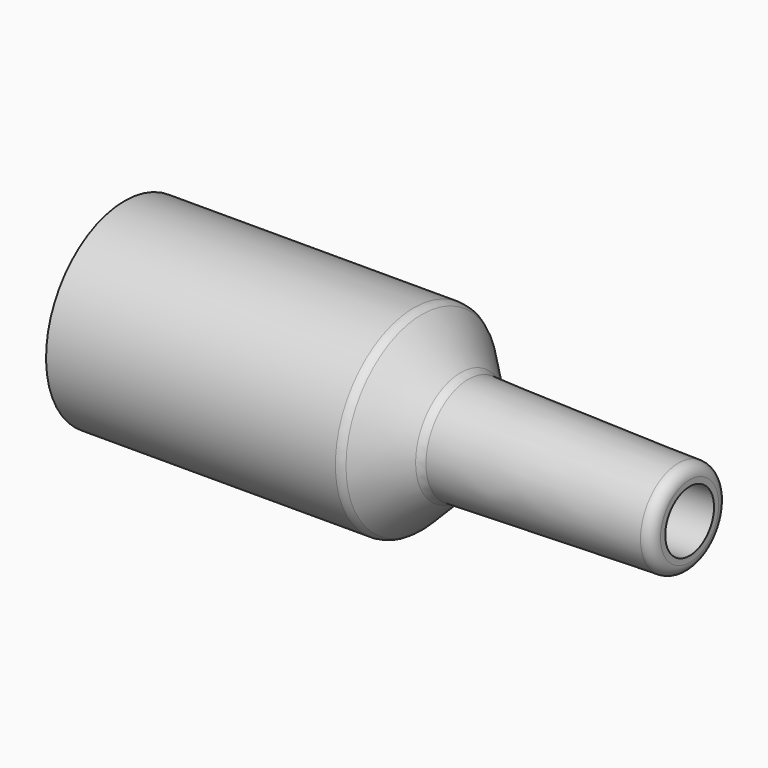
from build123d import *

# Parameters (mm, degrees)
F2_R = 1


with BuildPart() as f1:
    # F0 (on Front) → F1 (revolve)
    with BuildSketch(Plane.XZ):
        Polygon((0, 8.7), (0, 6.2), (25, 6.2), (28.5, 2.7), (50.035534, 2.7), (50.035534, 4.2), (30.035534, 4.7), (26.035534, 8.7), align=None)
    revolve(axis=Axis((25.017767, 0, 0), (-1, 0, 0)))

    # F2
    f2_edges = [f1.edges().sort_by_distance(p)[0] for p in [
        (26.035534, 0, -8.7),
        (30.035534, 0, -4.7),
        (50.035534, 0, -4.2),
        (25, 0, -6.2),
        (28.5, 0, -2.7),
    ]]
    fillet(f2_edges, radius=F2_R)


solid = f1.part
